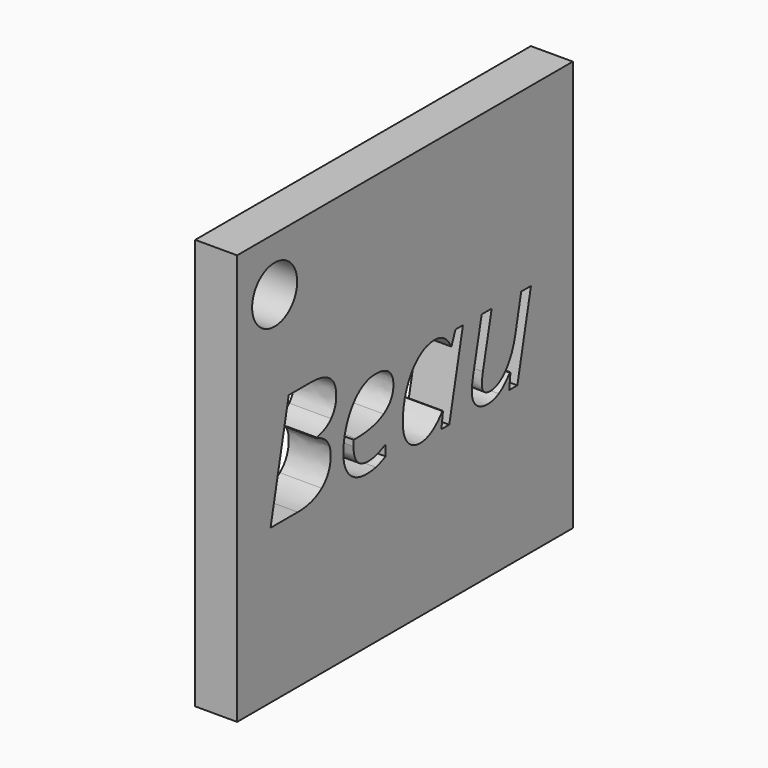
from build123d import *

# Parameters (mm, degrees)
F0_W     = 50
F0_H     = 48.9445883323
F0_R     = 3.3555723101
F1_DEPTH = 5


with BuildPart() as f1:
    # F0 (on Right) → F1 (new body)
    with BuildSketch(Plane.YZ):
        with Locations((1.9210092723, -2.0170593634)):
            Rectangle(F0_W, F0_H)
        with BuildLine():
            add(Edge.make_bspline(
                [(-2.4102224398, -8.1740687344), (-3.0415094863, -8.3283833458), (-3.8018596622, -8.3283833458)],
                knots=[0, 0, 0, 1, 1, 1], degree=2))
            add(Edge.make_bspline(
                [(-3.8018596622, -8.3283833458), (-5.415148781, -8.3283833458), (-6.3368278688, -7.3716327553)],
                knots=[0, 0, 0, 1, 1, 1], degree=2))
            add(Edge.make_bspline(
                [(-6.3368278688, -7.3716327553), (-7.2585069566, -6.4148821649), (-7.2585069566, -4.7230328804)],
                knots=[0, 0, 0, 1, 1, 1], degree=2))
            add(Edge.make_bspline(
                [(-7.2585069566, -4.7230328804), (-7.2585069566, -3.0760751192), (-6.6047741485, -1.5623890678)],
                knots=[0, 0, 0, 1, 1, 1], degree=2))
            add(Edge.make_bspline(
                [(-6.6047741485, -1.5623890678), (-5.9510413404, -0.0487030164), (-4.872241921, 0.7930130455)],
                knots=[0, 0, 0, 1, 1, 1], degree=2))
            add(Edge.make_bspline(
                [(-4.872241921, 0.7930130455), (-3.7934425016, 1.6347291075), (-2.4971997662, 1.6347291075)],
                knots=[0, 0, 0, 1, 1, 1], degree=2))
            add(Edge.make_bspline(
                [(-2.4971997662, 1.6347291075), (-1.1560655075, 1.6347291075), (-0.4798869378, 1.0511393045)],
                knots=[0, 0, 0, 1, 1, 1], degree=2))
            add(Edge.make_bspline(
                [(-0.4798869378, 1.0511393045), (0.196291632, 0.4675495016), (0.196291632, -0.5761784152)],
                knots=[0, 0, 0, 1, 1, 1], degree=2))
            add(Edge.make_bspline(
                [(0.196291632, -0.5761784152), (0.196291632, -2.1529931713), (-1.2598771552, -3.0522264975)],
                knots=[0, 0, 0, 1, 1, 1], degree=2))
            add(Edge.make_bspline(
                [(-1.2598771552, -3.0522264975), (-2.7160459423, -3.9514598236), (-5.4263716618, -3.9514598236)],
                knots=[0, 0, 0, 1, 1, 1], degree=2))
            Line((-5.4263716618, -3.9514598236), (-5.7153608431, -3.9514598236))
            Line((-5.7153608431, -3.9514598236), (-5.7490294855, -4.6528898753))
            add(Edge.make_bspline(
                [(-5.7490294855, -4.6528898753), (-5.7490294855, -5.8004294397), (-5.2103312059, -6.4457450872)],
                knots=[0, 0, 0, 1, 1, 1], degree=2))
            add(Edge.make_bspline(
                [(-5.2103312059, -6.4457450872), (-4.6716329263, -7.0910607347), (-3.540927683, -7.0910607347)],
                knots=[0, 0, 0, 1, 1, 1], degree=2))
            add(Edge.make_bspline(
                [(-3.540927683, -7.0910607347), (-2.9882008024, -7.0910607347), (-2.4046109994, -6.932537543)],
                knots=[0, 0, 0, 1, 1, 1], degree=2))
            add(Edge.make_bspline(
                [(-2.4046109994, -6.932537543), (-1.8210211965, -6.7740143514), (-0.9540536527, -6.3531563204)],
                knots=[0, 0, 0, 1, 1, 1], degree=2))
            Line((-0.9540536527, -6.3531563204), (-0.9540536527, -7.6353704547))
            add(Edge.make_bspline(
                [(-0.9540536527, -7.6353704547), (-1.7789353934, -8.019754123), (-2.4102224398, -8.1740687344)],
                knots=[0, 0, 0, 1, 1, 1], degree=2))
        make_face(mode=Mode.SUBTRACT)
        with BuildLine():
            add(Edge.make_bspline(
                [(3.9377195273, 0.7481215222), (5.033353268, 1.6347291075), (6.3408188842, 1.6347291075)],
                knots=[0, 0, 0, 1, 1, 1], degree=2))
            add(Edge.make_bspline(
                [(6.3408188842, 1.6347291075), (7.1460605834, 1.6347291075), (7.7773476299, 1.1998424755)],
                knots=[0, 0, 0, 1, 1, 1], degree=2))
            add(Edge.make_bspline(
                [(7.7773476299, 1.1998424755), (8.4086346764, 0.7649558435), (8.7593497022, -0.0487030164)],
                knots=[0, 0, 0, 1, 1, 1], degree=2))
            Line((8.7593497022, -0.0487030164), (8.8575499094, -0.0487030164))
            Line((8.8575499094, -0.0487030164), (9.4439454326, 1.4579687345))
            Line((9.4439454326, 1.4579687345), (10.5578163545, 1.4579687345))
            Line((10.5578163545, 1.4579687345), (8.5152520442, -8.1516229727))
            Line((8.5152520442, -8.1516229727), (7.3480724383, -8.1516229727))
            Line((7.3480724383, -8.1516229727), (7.5781414952, -6.3194876779))
            Line((7.5781414952, -6.3194876779), (7.5079984901, -6.3194876779))
            add(Edge.make_bspline(
                [(7.5079984901, -6.3194876779), (5.9367951745, -8.3283833458), (4.2000543666, -8.3283833458)],
                knots=[0, 0, 0, 1, 1, 1], degree=2))
            add(Edge.make_bspline(
                [(4.2000543666, -8.3283833458), (2.982371797, -8.3283833458), (2.289358906, -7.4600129418)],
                knots=[0, 0, 0, 1, 1, 1], degree=2))
            add(Edge.make_bspline(
                [(2.289358906, -7.4600129418), (1.596346015, -6.5916425379), (1.596346015, -5.0821650669)],
                knots=[0, 0, 0, 1, 1, 1], degree=2))
            add(Edge.make_bspline(
                [(1.596346015, -5.0821650669), (1.596346015, -3.2584469326), (2.2192159009, -1.6984664978)],
                knots=[0, 0, 0, 1, 1, 1], degree=2))
            add(Edge.make_bspline(
                [(2.2192159009, -1.6984664978), (2.8420857867, -0.138486063), (3.9377195273, 0.7481215222)],
                knots=[0, 0, 0, 1, 1, 1], degree=2))
        make_face(mode=Mode.SUBTRACT)
        with BuildLine():
            Line((13.3467022398, 1.4579687345), (14.8365396694, 1.4579687345))
            Line((14.8365396694, 1.4579687345), (13.5234626128, -4.636055554))
            add(Edge.make_bspline(
                [(13.5234626128, -4.636055554), (13.363536561, -5.4160457714), (13.363536561, -5.8537381236)],
                knots=[0, 0, 0, 1, 1, 1], degree=2))
            add(Edge.make_bspline(
                [(13.363536561, -5.8537381236), (13.363536561, -7.1078950559), (14.654167856, -7.1078950559)],
                knots=[0, 0, 0, 1, 1, 1], degree=2))
            add(Edge.make_bspline(
                [(14.654167856, -7.1078950559), (15.4257409128, -7.1078950559), (16.1706596276, -6.5818225172)],
                knots=[0, 0, 0, 1, 1, 1], degree=2))
            add(Edge.make_bspline(
                [(16.1706596276, -6.5818225172), (16.9155783424, -6.0557499785), (17.4851395443, -5.0737479062)],
                knots=[0, 0, 0, 1, 1, 1], degree=2))
            add(Edge.make_bspline(
                [(17.4851395443, -5.0737479062), (18.0547007462, -4.091745834), (18.3549128083, -2.705720052)],
                knots=[0, 0, 0, 1, 1, 1], degree=2))
            Line((18.3549128083, -2.705720052), (19.2302975128, 1.4579687345))
            Line((19.2302975128, 1.4579687345), (20.6864662999, 1.4579687345))
            Line((20.6864662999, 1.4579687345), (18.6607363108, -8.1516229727))
            Line((18.6607363108, -8.1516229727), (17.4430537412, -8.1516229727))
            Line((17.4430537412, -8.1516229727), (17.6338427153, -6.3727963618))
            Line((17.6338427153, -6.3727963618), (17.5300310676, -6.3727963618))
            add(Edge.make_bspline(
                [(17.5300310676, -6.3727963618), (16.6714806845, -7.4670272424), (15.8900876069, -7.8977052941)],
                knots=[0, 0, 0, 1, 1, 1], degree=2))
            add(Edge.make_bspline(
                [(15.8900876069, -7.8977052941), (15.1086945294, -8.3283833458), (14.2753956281, -8.3283833458)],
                knots=[0, 0, 0, 1, 1, 1], degree=2))
            add(Edge.make_bspline(
                [(14.2753956281, -8.3283833458), (13.1531075455, -8.3283833458), (12.5134033384, -7.7181392008)],
                knots=[0, 0, 0, 1, 1, 1], degree=2))
            add(Edge.make_bspline(
                [(12.5134033384, -7.7181392008), (11.8736991314, -7.1078950559), (11.8736991314, -5.9771898127)],
                knots=[0, 0, 0, 1, 1, 1], degree=2))
            add(Edge.make_bspline(
                [(11.8736991314, -5.9771898127), (11.8736991314, -5.4328800927), (12.0672938256, -4.4677123416)],
                knots=[0, 0, 0, 1, 1, 1], degree=2))
            Line((12.0672938256, -4.4677123416), (13.3467022398, 1.4579687345))
        make_face(mode=Mode.SUBTRACT)
        with BuildLine():
            Line((-15.3950955554, 4.6677126507), (-12.1067914734, 4.6677126507))
            add(Edge.make_bspline(
                [(-12.1067914734, 4.6677126507), (-8.3190691947, 4.6677126507), (-8.3190691947, 1.7217064339)],
                knots=[0, 0, 0, 1, 1, 1], degree=2))
            add(Edge.make_bspline(
                [(-8.3190691947, 1.7217064339), (-8.3190691947, 0.4843838228), (-9.0808222307, -0.3657493998)],
                knots=[0, 0, 0, 1, 1, 1], degree=2))
            add(Edge.make_bspline(
                [(-9.0808222307, -0.3657493998), (-9.8425752668, -1.2158826223), (-11.2286010488, -1.4712031611)],
                knots=[0, 0, 0, 1, 1, 1], degree=2))
            Line((-11.2286010488, -1.4712031611), (-11.2286010488, -1.5581804875))
            add(Edge.make_bspline(
                [(-11.2286010488, -1.5581804875), (-10.2213474947, -1.8387525082), (-9.6812463549, -2.5275568188)],
                knots=[0, 0, 0, 1, 1, 1], degree=2))
            add(Edge.make_bspline(
                [(-9.6812463549, -2.5275568188), (-9.1411452152, -3.2163611295), (-9.1411452152, -4.1787231604)],
                knots=[0, 0, 0, 1, 1, 1], degree=2))
            add(Edge.make_bspline(
                [(-9.1411452152, -4.1787231604), (-9.1411452152, -6.0389156573), (-10.4738623133, -7.095269315)],
                knots=[0, 0, 0, 1, 1, 1], degree=2))
            add(Edge.make_bspline(
                [(-10.4738623133, -7.095269315), (-11.8065794113, -8.1516229727), (-14.0427384159, -8.1516229727)],
                knots=[0, 0, 0, 1, 1, 1], degree=2))
            Line((-14.0427384159, -8.1516229727), (-18.1026155547, -8.1516229727))
            Line((-18.1026155547, -8.1516229727), (-15.3950955554, 4.6677126507))
        make_face(mode=Mode.SUBTRACT)
        with Locations((-17.4894966185, 16.0714294761)):
            Circle(F0_R, mode=Mode.SUBTRACT)
    extrude(amount=F1_DEPTH)


solid = f1.part
